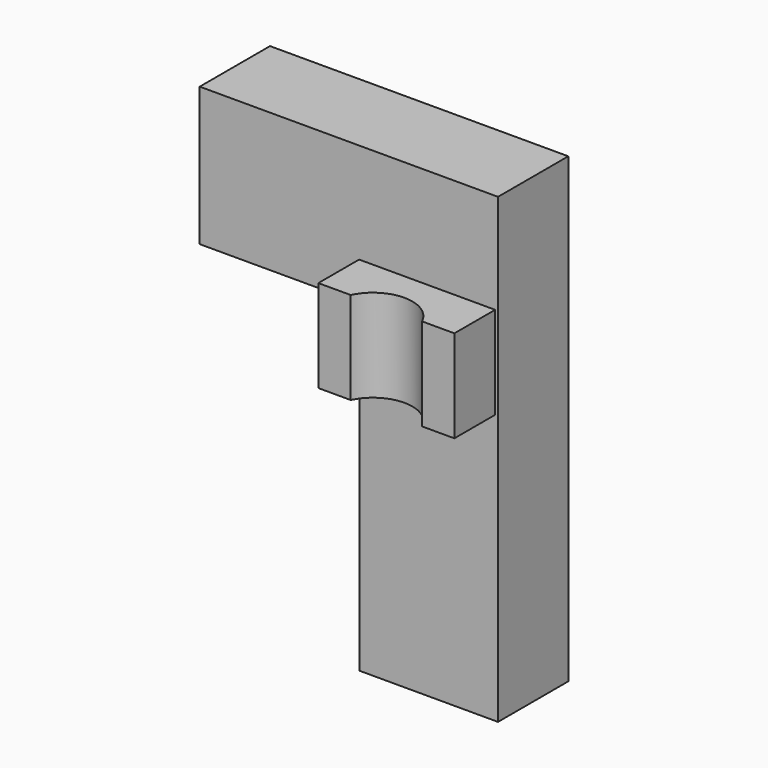
from build123d import *

# Parameters (mm, degrees)
F1_DEPTH = 19
F3_DEPTH = 20


with BuildPart() as f1:
    # F0 (on Front) → F1 (new body)
    with BuildSketch(Plane.XZ):
        Polygon((0, 30), (0, 0), (34.5283, 0), (34.5283, -70), (64.5283, -70), (64.5283, 30), align=None)
    extrude(amount=F1_DEPTH)


with BuildPart() as f3:
    # F2 (on Top) → F3 (new body)
    with BuildSketch(Plane.XY):
        with BuildLine():
            Line((77.967286, -36.574991), (48.540161, -36.574991))
            Line((48.540161, -36.574991), (48.540161, -47.596054))
            Line((48.540161, -47.596054), (55.540161, -47.596054))
            ThreePointArc((55.540161, -47.596054), (63.253724, -42.695563), (70.967286, -47.596054))
            Line((70.967286, -47.596054), (77.967286, -47.596054))
            Line((77.967286, -47.596054), (77.967286, -36.574991))
        make_face()
    extrude(amount=F3_DEPTH)


solid = Compound([f1.part, f3.part])
